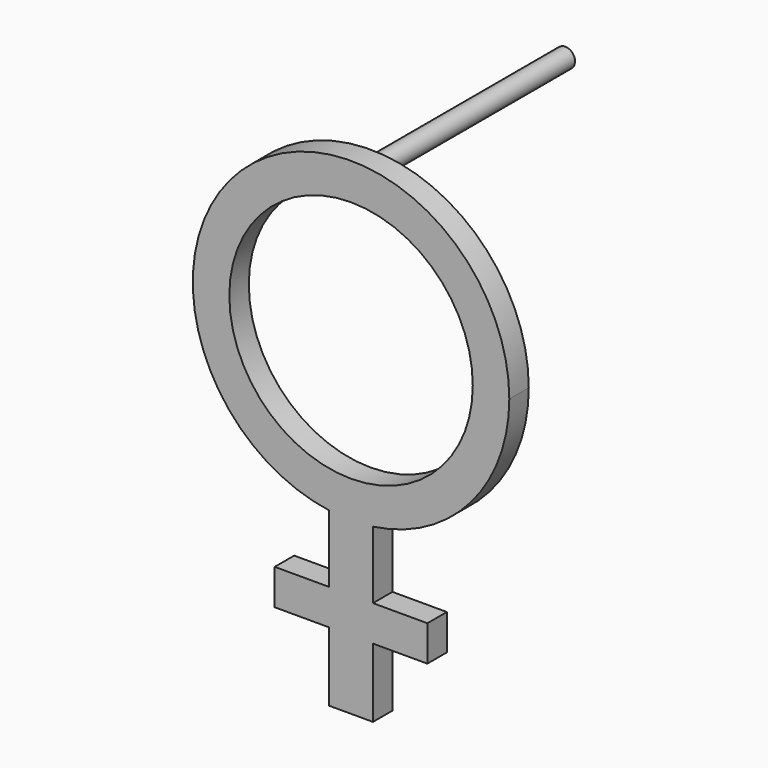
from build123d import *

# Parameters (mm, degrees)
F0_R     = 5
F1_DEPTH = 1
F2_R     = 0.4
F3_DEPTH = 10


with BuildPart() as f1:
    # F0 (on Front) → F1 (new body)
    with BuildSketch(Plane.XZ):
        with BuildLine():
            ThreePointArc((0.9, -6.437391), (4.90408, -4.266146), (6.5, 0))
            ThreePointArc((6.5, 0), (-4.266146, 4.90408), (-0.9, -6.437391))
            ThreePointArc((-0.9, -6.437391), (-0.451088, -6.484329), (0, -6.5))
            ThreePointArc((0, -6.5), (0.451088, -6.484329), (0.9, -6.437391))
        make_face()
        Circle(F0_R, mode=Mode.SUBTRACT)
        with BuildLine():
            ThreePointArc((0, -6.5), (-0.451088, -6.484329), (-0.9, -6.437391))
            Line((-0.9, -6.437391), (-0.9, -9.204255))
            Line((-0.9, -9.204255), (-3.135372, -9.204255))
            Line((-3.135372, -9.204255), (-3.135372, -10.666868))
            Line((-3.135372, -10.666868), (-0.9, -10.666868))
            Line((-0.9, -10.666868), (-0.9, -13.5))
            Line((-0.9, -13.5), (0, -13.5))
            Line((0, -13.5), (0, -6.5))
        make_face()
        with BuildLine():
            Line((0.9, -9.204255), (0.9, -6.437391))
            ThreePointArc((0.9, -6.437391), (0.451088, -6.484329), (0, -6.5))
            Line((0, -6.5), (0, -13.5))
            Line((0, -13.5), (0.9, -13.5))
            Line((0.9, -13.5), (0.9, -10.666868))
            Line((0.9, -10.666868), (3.135372, -10.666868))
            Line((3.135372, -10.666868), (3.135372, -9.204255))
            Line((3.135372, -9.204255), (0.9, -9.204255))
        make_face()
    extrude(amount=F1_DEPTH)

    # F2 (on face) → F3 (join)
    with BuildSketch(Plane(origin=(0, 0, 0), x_dir=(-1, 0, 0), z_dir=(0, 1, 0))):
        with Locations((0, 5.754276)):
            Circle(F2_R)
    extrude(amount=F3_DEPTH)


solid = f1.part
